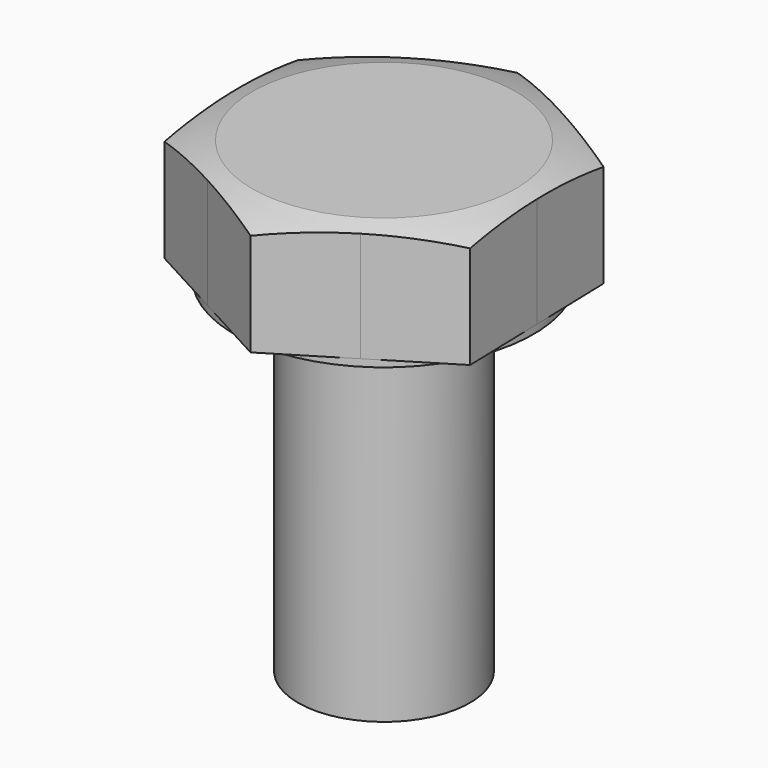
from build123d import *

# Parameters (mm, degrees)
F3_DEPTH = 6.5


with BuildPart() as f1:
    # F0 (on Front) → F1 (revolve)
    with BuildSketch(Plane.XZ):
        Polygon((-8.45, 26.529349), (-4.85, 26.529349), (-4.85, 7.029349), (0, 7.029349), (0, 26.929349), (-8.45, 26.929349), align=None)
    revolve(axis=Axis((0, 0, 16.979349), (0, 0, -1)))

    # F2 (on face) → F3 (join)
    with BuildSketch(Plane.XY.offset(26.929349)):
        with BuildLine():
            Line((-4.423316, 7.199776), (-8.580109, 4.645973))
            Line((-8.580109, 4.645973), (-8.446847, -0.230816))
            ThreePointArc((-8.446847, -0.230816), (-7.430592, 4.023531), (-4.423316, 7.199776))
        make_face()
        with BuildLine():
            ThreePointArc((-4.023531, -7.430592), (-7.199776, -4.423316), (-8.446847, -0.230816))
            Line((-8.446847, -0.230816), (-8.313585, -5.107606))
            Line((-8.313585, -5.107606), (-4.023531, -7.430592))
        make_face()
        with BuildLine():
            ThreePointArc((4.423316, -7.199776), (0.230816, -8.446847), (-4.023531, -7.430592))
            Line((-4.023531, -7.430592), (0.266524, -9.753579))
            Line((0.266524, -9.753579), (4.423316, -7.199776))
        make_face()
        with BuildLine():
            Line((8.580109, -4.645973), (8.446847, 0.230817))
            ThreePointArc((8.446847, 0.230817), (8.449212, 0.115419), (8.45, 0))
            ThreePointArc((8.45, 0), (7.374941, -4.12465), (4.423316, -7.199776))
            Line((4.423316, -7.199776), (8.580109, -4.645973))
        make_face()
        with BuildLine():
            Line((8.313585, 5.107606), (4.02353, 7.430592))
            ThreePointArc((4.02353, 7.430592), (7.199776, 4.423317), (8.446847, 0.230817))
            Line((8.446847, 0.230817), (8.313585, 5.107606))
        make_face()
        with BuildLine():
            Line((-0.266524, 9.753579), (-4.423316, 7.199776))
            ThreePointArc((-4.423316, 7.199776), (-0.230816, 8.446847), (4.02353, 7.430592))
            Line((4.02353, 7.430592), (-0.266524, 9.753579))
        make_face()
        with BuildLine():
            ThreePointArc((4.02353, 7.430592), (-0.230816, 8.446847), (-4.423316, 7.199776))
            ThreePointArc((-4.423316, 7.199776), (-7.430592, 4.023531), (-8.446847, -0.230816))
            ThreePointArc((-8.446847, -0.230816), (-7.199776, -4.423316), (-4.023531, -7.430592))
            ThreePointArc((-4.023531, -7.430592), (0.230816, -8.446847), (4.423316, -7.199776))
            ThreePointArc((4.423316, -7.199776), (7.374941, -4.12465), (8.45, 0))
            ThreePointArc((8.45, 0), (8.449212, 0.115419), (8.446847, 0.230817))
            ThreePointArc((8.446847, 0.230817), (7.199776, 4.423317), (4.02353, 7.430592))
        make_face()
    extrude(amount=F3_DEPTH)

    # F4 (on Right) → F5 (revolve, cut)
    with BuildSketch(Plane.YZ):
        with BuildLine():
            Line((-9.753579, 34.181605), (-9.753579, 33.429349))
            Line((-9.753579, 33.429349), (-9.753579, 32.729349))
            ThreePointArc((-9.753579, 32.729349), (-5.242504, 33.907685), (-0.60275, 34.366983))
            Line((-0.60275, 34.366983), (-9.753579, 34.181605))
        make_face()
    revolve(axis=Axis((0, 0, 33.879628), (0, 0, -1)), mode=Mode.SUBTRACT)


solid = f1.part
